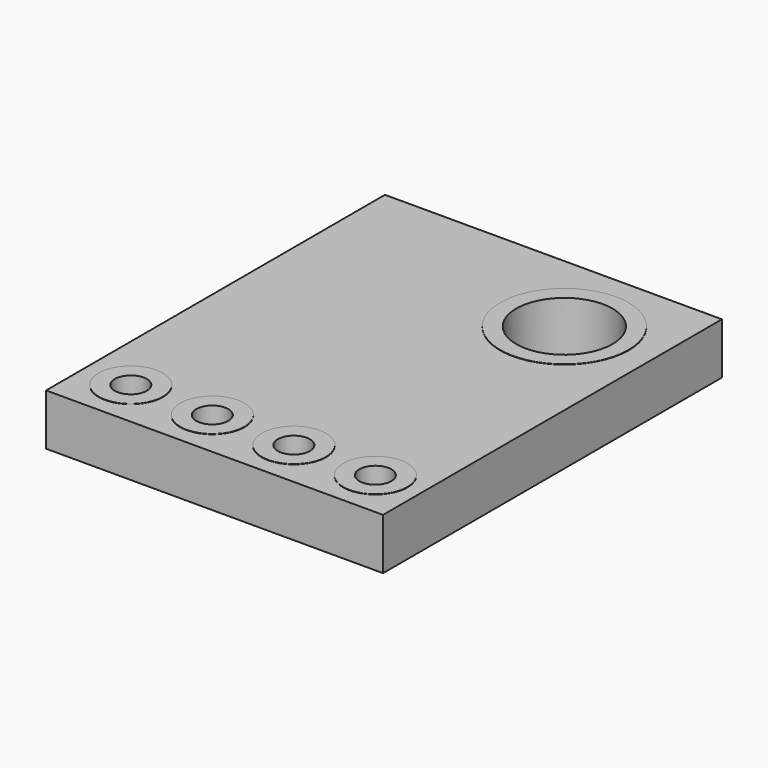
from build123d import *

# Parameters (mm, degrees)
BOX_W         = 10.5
BOX_H         = 13.2
BOX_DEPTH     = 1.6
SKETCH_R      = 1
SKETCH_R_2    = 2
PAD_DEPTH     = 0.01
SKETCH001_R   = 1.5
SKETCH001_R_2 = 0.5
POCKET_DEPTH  = 1.611
SKETCH002_W   = 2.5
SKETCH002_H   = 2.5
PAD001_DEPTH  = 1
FILLET_R      = 0.5
FILLET001_R   = 0.3


with BuildPart() as part:
    # Box → Box (new body)
    with BuildSketch(Plane.XY):
        with Locations((5.25, 6.6)):
            Rectangle(BOX_W, BOX_H)
    extrude(amount=BOX_DEPTH)

    # Sketch → Pad (new body)
    with BuildSketch(Plane.XY.offset(1.6)):
        with Locations((1.44, 1.5)):
            Circle(SKETCH_R)
        with Locations((3.98, 1.5)):
            Circle(SKETCH_R)
        with Locations((6.52, 1.5)):
            Circle(SKETCH_R)
        with Locations((9.06, 1.5)):
            Circle(SKETCH_R)
        with Locations((7.75, 10.5)):
            Circle(SKETCH_R_2)
    extrude(amount=PAD_DEPTH)

    # Sketch001 → Pocket (cut, through all)
    with BuildSketch(Plane.XY.offset(1.61)):
        with Locations((7.75, 10.5)):
            Circle(SKETCH001_R)
        with Locations((1.44, 1.5)):
            Circle(SKETCH001_R_2)
        with Locations((3.98, 1.5)):
            Circle(SKETCH001_R_2)
        with Locations((6.52, 1.5)):
            Circle(SKETCH001_R_2)
        with Locations((9.06, 1.5)):
            Circle(SKETCH001_R_2)
    extrude(amount=-POCKET_DEPTH, mode=Mode.SUBTRACT)

    # Sketch002 → Pad001 (new body)
    with BuildSketch(Plane(origin=(0, 0, 0), x_dir=(1, 0, 0), z_dir=(0, 0, -1))):
        with Locations((2.95, -10.6)):
            Rectangle(SKETCH002_W, SKETCH002_H)
    extrude(amount=PAD001_DEPTH)

    # Fillet
    fillet_edges = [part.edges().sort_by_distance(p)[0] for p in [
        (4.2, 11.85, -0.5),
        (1.7, 11.85, -0.5),
        (1.7, 9.35, -0.5),
        (4.2, 9.35, -0.5),
    ]]
    fillet(fillet_edges, radius=FILLET_R)

    # Fillet001
    fillet001_edges = [part.edges().sort_by_distance(p)[0] for p in [
        (4.2, 10.6, -1),
        (2.95, 9.35, -1),
        (1.7, 10.6, -1),
        (2.95, 11.85, -1),
    ]]
    fillet(fillet001_edges, radius=FILLET001_R)


solid = part.part
